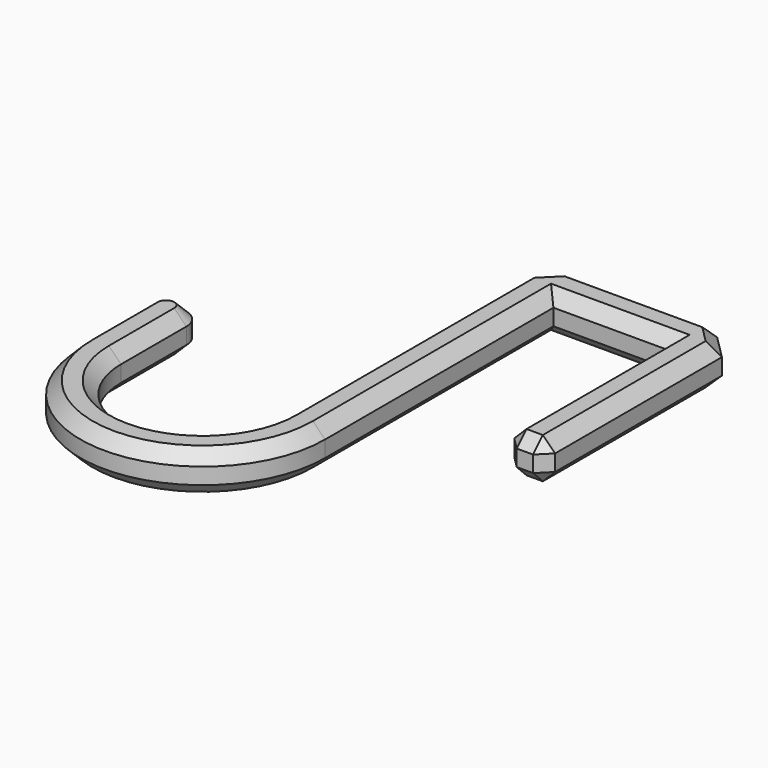
from build123d import *

# Parameters (mm, degrees)
PAD_DEPTH    = 5
CHAMFER_SIZE = 1.5


with BuildPart() as part:
    # Sketch → Pad (new body)
    with BuildSketch(Plane.XY):
        with BuildLine():
            Line((44, 10), (44, 35))
            Line((44, 35), (30, 35))
            Line((30, 35), (30, 10))
            Line((30, 10), (30, 0))
            ThreePointArc((0, 0), (15, -15), (30, 0))
            Line((0, 0), (0, 10))
            ThreePointArc((5, 10), (2.5, 12.5), (0, 10))
            Line((5, 10), (5, 0))
            ThreePointArc((5, 0), (15, -10), (25, 0))
            Line((25, 37.071068), (25, 0))
            Line((27.928932, 40), (25, 37.071068))
            Line((46.071068, 40), (27.928932, 40))
            Line((49, 37.071068), (46.071068, 40))
            Line((49, 10), (49, 37.071068))
            Line((44, 10), (49, 10))
        make_face()
    extrude(amount=PAD_DEPTH)

    # Chamfer
    chamfer_edges = [part.edges().sort_by_distance(p)[0] for p in [
        (44, 22.5, 5),
        (37, 35, 5),
        (30, 17.5, 5),
        (15, -15, 5),
        (0, 5, 5),
        (2.5, 12.5, 5),
        (5, 5, 5),
        (15, -10, 5),
        (25, 18.535534, 5),
        (26.464466, 38.535534, 5),
        (37, 40, 5),
        (47.535534, 38.535534, 5),
        (49, 23.535534, 5),
        (46.5, 10, 5),
        (44, 10, 2.5),
        (49, 10, 2.5),
        (46.5, 10, 0),
        (44, 22.5, 0),
        (37, 35, 0),
        (30, 17.5, 0),
        (15, -15, 0),
        (0, 5, 0),
        (2.5, 12.5, 0),
        (5, 5, 0),
        (15, -10, 0),
        (25, 18.535534, 0),
        (26.464466, 38.535534, 0),
        (37, 40, 0),
        (47.535534, 38.535534, 0),
        (49, 23.535534, 0),
    ]]
    chamfer(chamfer_edges, length=CHAMFER_SIZE)


solid = part.part
